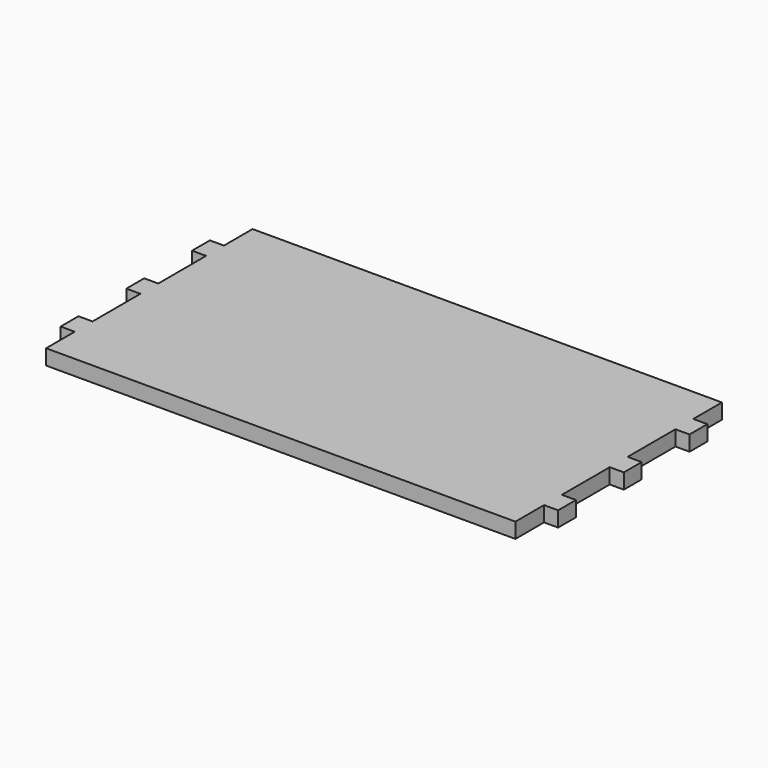
from build123d import *

# Parameters (mm, degrees)
F0_W     = 200
F0_H     = 110
F1_DEPTH = 6.5
F3_DEPTH = 6
F5_DEPTH = 6


with BuildPart() as f1:
    # F0 (on Top) → F1 (new body)
    with BuildSketch(Plane.XY):
        Rectangle(F0_W, F0_H)
    extrude(amount=F1_DEPTH)

    # F2 (on face) → F3 (join)
    with BuildSketch(Plane(origin=(-100, 0, 0), x_dir=(0, -1, 0), z_dir=(-1, 0, 0))):
        Polygon((-39.75, 6.5), (-39.75, 3.25), (-35, 3.25), (-30.25, 3.25), (-30.25, 6.5), align=None)
        Polygon((-35, 3.25), (-39.75, 3.25), (-39.75, 0), (-30.25, 0), (-30.25, 3.25), align=None)
        Polygon((-4.75, 6.5), (-4.75, 3.25), (0, 3.25), (4.75, 3.25), (4.75, 6.5), align=None)
        Polygon((0, 3.25), (-4.75, 3.25), (-4.75, 0), (4.75, 0), (4.75, 3.25), align=None)
        Polygon((39.75, 6.5), (30.25, 6.5), (30.25, 3.25), (35, 3.25), (39.75, 3.25), align=None)
        Polygon((30.25, 3.25), (30.25, 0), (39.75, 0), (39.75, 3.25), (35, 3.25), align=None)
    extrude(amount=F3_DEPTH)

    # F4 (on face) → F5 (join)
    with BuildSketch(Plane.YZ.offset(100)):
        Polygon((-39.75, 6.5), (-39.75, 3.25), (-35, 3.25), (-30.25, 3.25), (-30.25, 6.5), align=None)
        Polygon((-35, 3.25), (-39.75, 3.25), (-39.75, 0), (-30.25, 0), (-30.25, 3.25), align=None)
        Polygon((-4.75, 6.5), (-4.75, 3.25), (0, 3.25), (4.75, 3.25), (4.75, 6.5), align=None)
        Polygon((0, 3.25), (-4.75, 3.25), (-4.75, 0), (4.75, 0), (4.75, 3.25), align=None)
        Polygon((39.75, 6.5), (30.25, 6.5), (30.25, 3.25), (30.25, 0), (39.75, 0), align=None)
    extrude(amount=F5_DEPTH)


solid = f1.part
